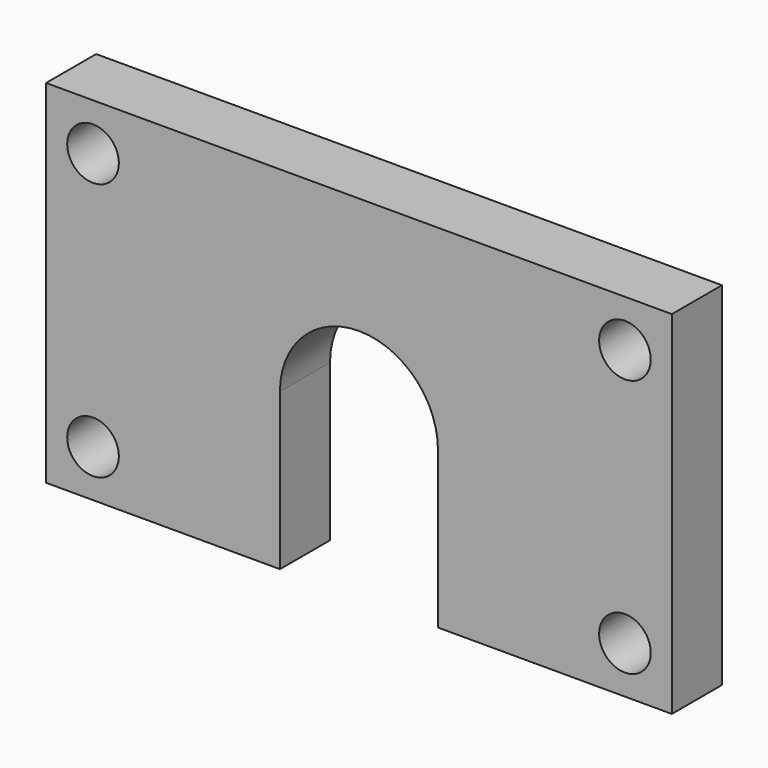
from build123d import *

# Parameters (mm, degrees)
F1_DEPTH = 8
F3_D     = 6.6


with BuildPart() as f1:
    # F0 (on Front) → F1 (new body)
    with BuildSketch(Plane.XZ):
        with BuildLine():
            Line((40, 22.5), (-40, 22.5))
            Line((-40, 22.5), (-40, -22.5))
            Line((-40, -22.5), (-10.1, -22.5))
            Line((-10.1, -22.5), (-10.1, -2.5))
            ThreePointArc((-10.1, -2.5), (0, 7.6), (10.1, -2.5))
            Line((10.1, -2.5), (10.1, -22.5))
            Line((10.1, -22.5), (40, -22.5))
            Line((40, -22.5), (40, 22.5))
        make_face()
    extrude(amount=F1_DEPTH)

    # F3 (through all)
    with Locations(Plane.XZ.offset(8)):
        with Locations((-34, 16.5), (-34, -16.5), (34, -16.5), (34, 16.5)):
            Hole(F3_D / 2)


solid = f1.part
